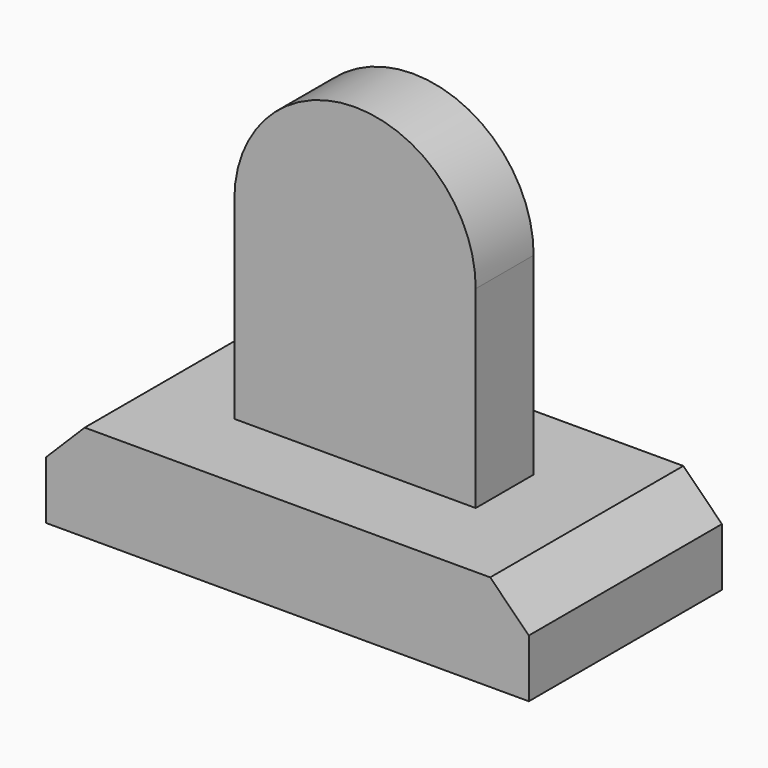
from build123d import *

# Parameters (mm, degrees)
F0_W     = 100
F0_H     = 50
F1_DEPTH = 20
F2_SIZE  = 8
F4_DEPTH = 7.5


with BuildPart() as f1:
    # F0 (on Top) → F1 (new body)
    with BuildSketch(Plane.XY):
        Rectangle(F0_W, F0_H)
    extrude(amount=F1_DEPTH)

    # F2
    f2_edges = [f1.edges().sort_by_distance(p)[0] for p in [
        (-50, 0, 20),
        (50, 0, 20),
    ]]
    chamfer(f2_edges, length=F2_SIZE)

    # F3 (on Front) → F4 (join, symmetric)
    with BuildSketch(Plane.XZ):
        with BuildLine():
            Line((-25, 60), (-25, 20))
            Line((-25, 20), (25, 20))
            Line((25, 20), (25, 60))
            ThreePointArc((25, 60), (0, 85), (-25, 60))
        make_face()
    extrude(amount=F4_DEPTH, both=True)


solid = f1.part
